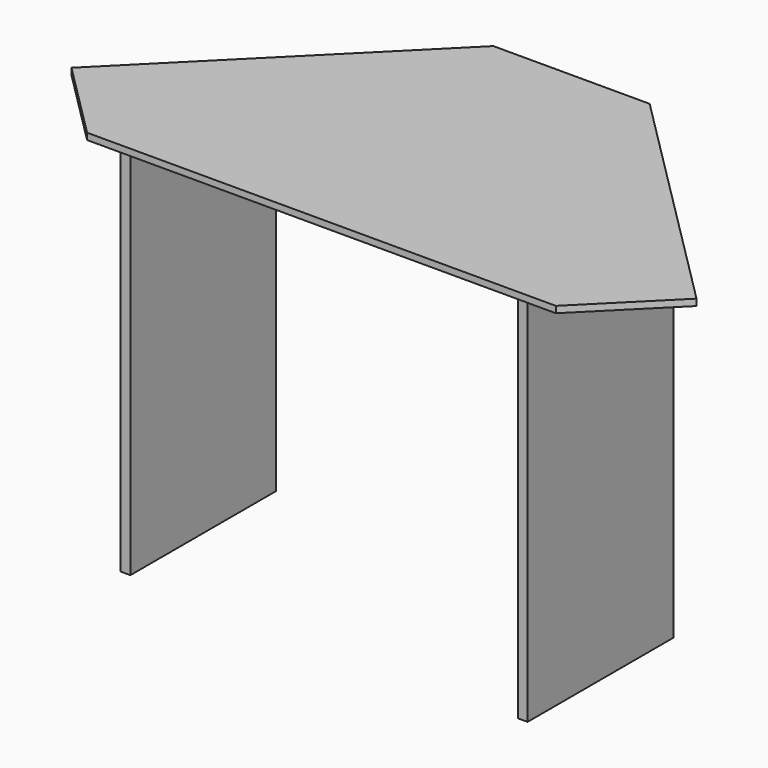
from build123d import *

# Parameters (mm, degrees)
F1_DEPTH = 12.7
F2_W     = 19.05
F2_H     = 355.6
F3_DEPTH = 723.9


with BuildPart() as f1:
    # F0 (on Top) → F1 (new body)
    with BuildSketch(Plane.XY):
        Polygon((152.4, 609.6), (-152.4, 609.6), (-609.6, 152.4), (-457.2, 0), (457.2, 0), (609.6, 152.4), align=None)
    extrude(amount=F1_DEPTH)


with BuildPart() as f3:
    # F2 (on face) → F3 (new body)
    with BuildSketch(Plane(origin=(0, 0, 0), x_dir=(1, 0, 0), z_dir=(0, 0, -1))):
        with Locations((-387.35, -184.15)):
            Rectangle(F2_W, F2_H)
        with Locations((387.35, -184.15)):
            Rectangle(F2_W, F2_H)
    extrude(amount=F3_DEPTH)


solid = Compound([f1.part, f3.part])
